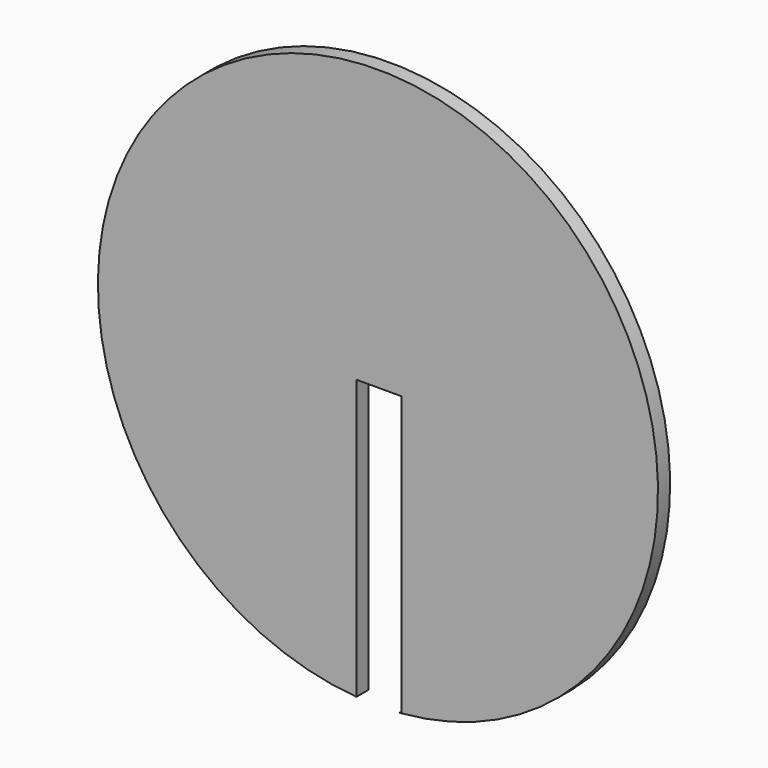
from build123d import *

# Parameters (mm, degrees)
F1_DEPTH = 3


with BuildPart() as f1:
    # F0 (on Front) → F1 (new body)
    with BuildSketch(Plane.XZ):
        with BuildLine():
            Line((4.698028, 0), (4.698028, -55.159888))
            ThreePointArc((4.698028, -55.159888), (-0.224447, 55.35914), (-4.250602, -55.196169))
            Line((-4.250602, -55.196169), (-4.250602, 0))
            Line((-4.250602, 0), (4.698028, 0))
        make_face()
        with BuildLine():
            ThreePointArc((4.698028, -55.159888), (4.474352, -55.178482), (4.250602, -55.196169))
            Line((4.250602, -55.196169), (4.698028, -55.196169))
            Line((4.698028, -55.196169), (4.698028, -55.159888))
        make_face()
    extrude(amount=F1_DEPTH)


solid = f1.part
